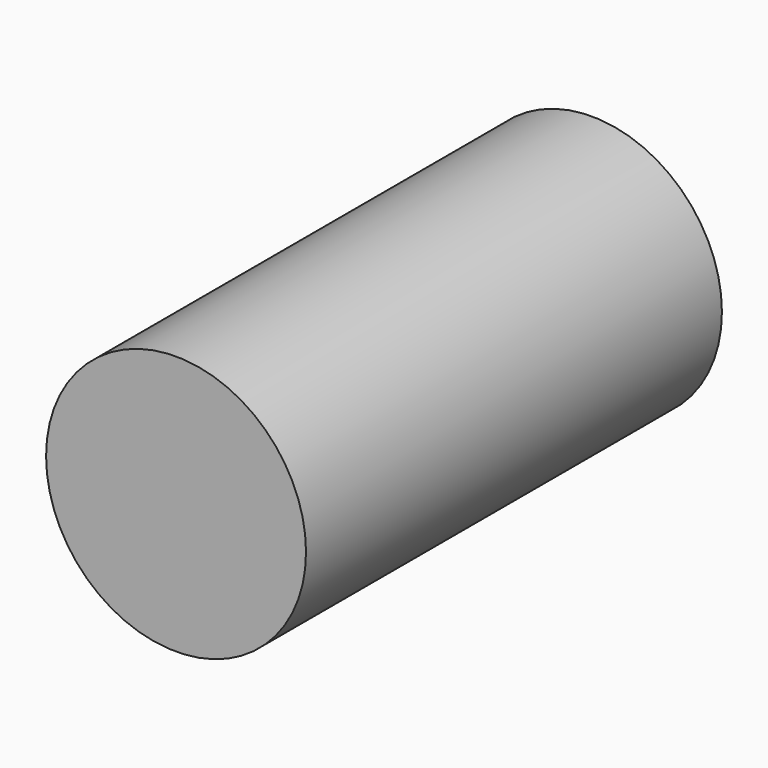
from build123d import *

# Parameters (mm, degrees)
F0_R     = 12.7
F1_DEPTH = 50.8
F2_R     = 3.175
F3_DEPTH = 25.4


with BuildPart() as f1:
    # F0 (on Front) → F1 (new body)
    with BuildSketch(Plane.XZ):
        Circle(F0_R)
    extrude(amount=F1_DEPTH)

    # F2 (on Top) → F3 (cut)
    with BuildSketch(Plane.XY):
        with Locations((0, -25.894234)):
            Circle(F2_R)
    extrude(amount=-F3_DEPTH, mode=Mode.SUBTRACT)


solid = f1.part
